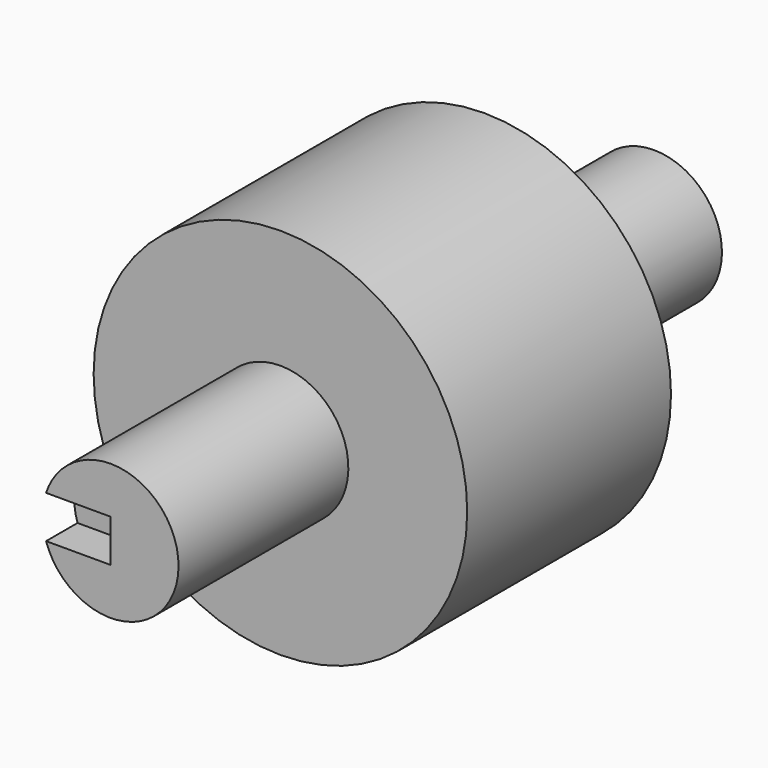
from build123d import *

# Parameters (mm, degrees)
F2_W     = 9.895403
F2_H     = 5
F3_DEPTH = 22.001


with BuildPart() as f1:
    # F0 (on Right) → F1 (revolve)
    with BuildSketch(Plane.YZ):
        Polygon((-40, 8), (-40, 0), (40, 0), (40, 8), (15, 8), (15, 22), (-15, 22), (-15, 8), align=None)
    revolve(axis=Axis((0, 14.771244, 0), (0, 1, 0)))

    # F2 (on Right) → F3 (cut, through all)
    with BuildSketch(Plane.YZ):
        with Locations((-40.318716, 0)):
            Rectangle(F2_W, F2_H)
    extrude(amount=-F3_DEPTH, mode=Mode.SUBTRACT)


solid = f1.part
